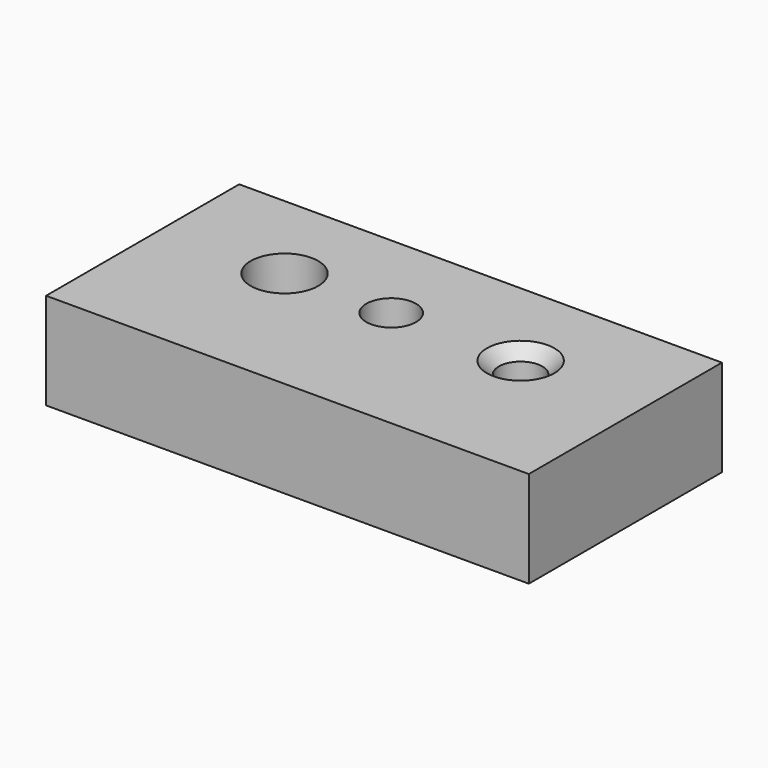
from build123d import *

# Parameters (mm, degrees)
F0_W           = 100
F0_H           = 50
F1_DEPTH       = 20
F3_D           = 9
F3_DEPTH       = 30
F3_CBORE_D     = 14
F3_CBORE_DEPTH = 10
F3_TIP         = 2.7038727856
F4_D           = 9
F4_CSINK_D     = 14
F4_CSINK_ANGLE = 90
F5_D           = 10.3


with BuildPart() as f1:
    # F0 (on Top) → F1 (new body)
    with BuildSketch(Plane.XY):
        with Locations((19.3940885365, -5.1782257724)):
            Rectangle(F0_W, F0_H)
    extrude(amount=F1_DEPTH)

    # F3
    with Locations(Plane.XY.offset(20)):
        with Locations((-5.3611323237, 0)):
            CounterBoreHole(F3_D / 2, F3_CBORE_D / 2, F3_CBORE_DEPTH, depth=F3_DEPTH)
            with Locations((0, 0, -(F3_DEPTH + F3_TIP / 2))):  # 118° drill point
                Cone(0, F3_D / 2, F3_TIP, mode=Mode.SUBTRACT)

    # F4 (through all)
    with Locations(Plane.XY.offset(20)):
        with Locations((43.5566157103, 0)):
            CounterSinkHole(F4_D / 2, F4_CSINK_D / 2, counter_sink_angle=F4_CSINK_ANGLE)

    # F5 (through all)
    with Locations(Plane.XY.offset(20)):
        with Locations((16.7399458587, 0)):
            Hole(F5_D / 2)


solid = f1.part
